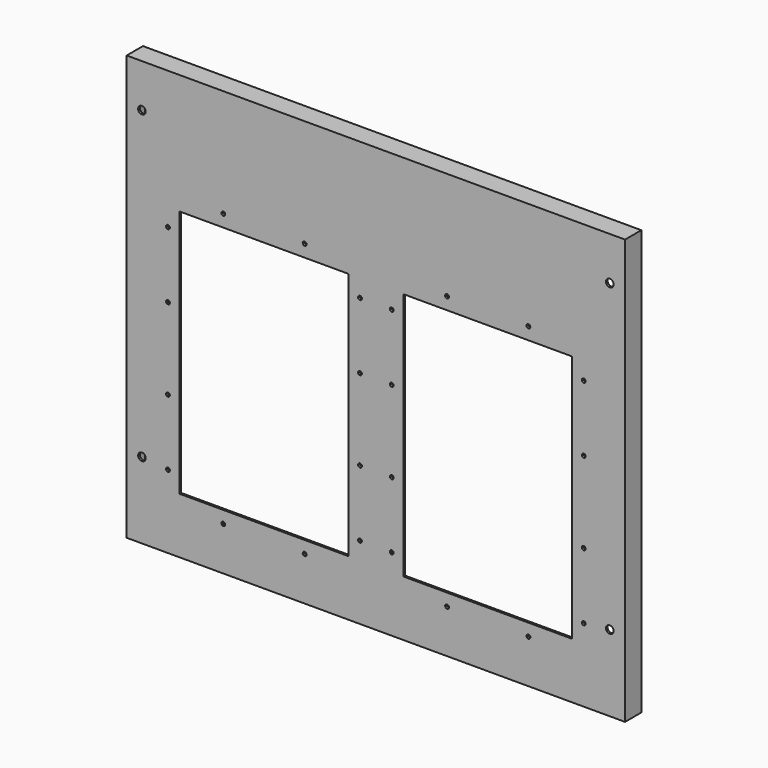
from build123d import *

# Parameters (mm, degrees)
F0_W     = 622.3
F0_H     = 530.225
F0_R     = 2.413
F0_R_2   = 4.7625
F0_W_2   = 210.82
F0_H_2   = 310.388
F1_DEPTH = 25.4
F2_T     = -2.54
F3_W     = 617.22
F3_H     = 22.86
F4_DEPTH = 525.145


with BuildPart() as f1:
    # F0 (on Front) → F1 (new body)
    with BuildSketch(Plane.XZ):
        with Locations((0, 265.1125)):
            Rectangle(F0_W, F0_H)
        with Locations((-190.5, 54.483)):
            Circle(F0_R, mode=Mode.SUBTRACT)
        with Locations((-292.1, 95.25)):
            Circle(F0_R_2, mode=Mode.SUBTRACT)
        with Locations((-259.588, 91.694)):
            Circle(F0_R, mode=Mode.SUBTRACT)
        with Locations((-88.9, 54.483)):
            Circle(F0_R, mode=Mode.SUBTRACT)
        with Locations((-19.812, 91.694)):
            Circle(F0_R, mode=Mode.SUBTRACT)
        with Locations((-259.588, 174.244)):
            Circle(F0_R, mode=Mode.SUBTRACT)
        with Locations((-19.812, 174.244)):
            Circle(F0_R, mode=Mode.SUBTRACT)
        with Locations((-139.7, 225.044)):
            Rectangle(F0_W_2, F0_H_2, mode=Mode.SUBTRACT)
        with Locations((88.9, 54.483)):
            Circle(F0_R, mode=Mode.SUBTRACT)
        with Locations((19.812, 91.694)):
            Circle(F0_R, mode=Mode.SUBTRACT)
        with Locations((190.5, 54.483)):
            Circle(F0_R, mode=Mode.SUBTRACT)
        with Locations((259.588, 91.694)):
            Circle(F0_R, mode=Mode.SUBTRACT)
        with Locations((292.1, 95.25)):
            Circle(F0_R_2, mode=Mode.SUBTRACT)
        with Locations((19.812, 174.244)):
            Circle(F0_R, mode=Mode.SUBTRACT)
        with Locations((139.7, 225.044)):
            Rectangle(F0_W_2, F0_H_2, mode=Mode.SUBTRACT)
        with Locations((259.588, 174.244)):
            Circle(F0_R, mode=Mode.SUBTRACT)
        with Locations((-259.588, 275.844)):
            Circle(F0_R, mode=Mode.SUBTRACT)
        with Locations((-259.588, 358.394)):
            Circle(F0_R, mode=Mode.SUBTRACT)
        with Locations((-190.5, 395.605)):
            Circle(F0_R, mode=Mode.SUBTRACT)
        with Locations((-19.812, 275.844)):
            Circle(F0_R, mode=Mode.SUBTRACT)
        with Locations((-88.9, 395.605)):
            Circle(F0_R, mode=Mode.SUBTRACT)
        with Locations((-19.812, 358.394)):
            Circle(F0_R, mode=Mode.SUBTRACT)
        with Locations((-292.1, 476.25)):
            Circle(F0_R_2, mode=Mode.SUBTRACT)
        with Locations((19.812, 275.844)):
            Circle(F0_R, mode=Mode.SUBTRACT)
        with Locations((19.812, 358.394)):
            Circle(F0_R, mode=Mode.SUBTRACT)
        with Locations((88.9, 395.605)):
            Circle(F0_R, mode=Mode.SUBTRACT)
        with Locations((259.588, 275.844)):
            Circle(F0_R, mode=Mode.SUBTRACT)
        with Locations((190.5, 395.605)):
            Circle(F0_R, mode=Mode.SUBTRACT)
        with Locations((259.588, 358.394)):
            Circle(F0_R, mode=Mode.SUBTRACT)
        with Locations((292.1, 476.25)):
            Circle(F0_R_2, mode=Mode.SUBTRACT)
    extrude(amount=F1_DEPTH)

    # F2
    f2_openings = [f1.faces().sort_by_distance(p)[0] for p in [
        (0, 0, 291.607125),
    ]]
    offset(amount=F2_T, openings=f2_openings, kind=Kind.INTERSECTION)

    # F3 (on face) → F4 (cut, through all)
    with BuildSketch(Plane(origin=(0, 0, 527.685), x_dir=(1, 0, 0), z_dir=(0, 0, -1))):
        with Locations((0, 11.43)):
            Rectangle(F3_W, F3_H)
    extrude(amount=F4_DEPTH, mode=Mode.SUBTRACT)


solid = f1.part
